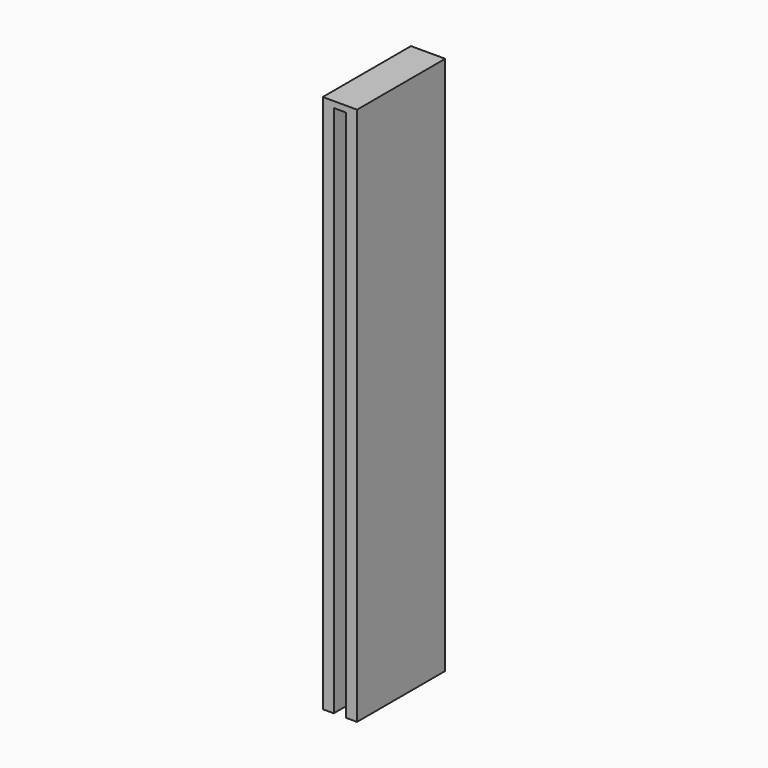
from build123d import *

# Parameters (mm, degrees)
F0_W          = 45
F0_H          = 220
F1_DEPTH      = 7
F1_DEPTH_BACK = 7
F2_W          = 5
F2_H          = 217.5
F3_DEPTH      = 20


with BuildPart() as f1:
    # F0 (on Right) → F1 (new body, two sides)
    with BuildSketch(Plane.YZ) as f1_sk:
        with Locations((8.797029, 79.818066)):
            Rectangle(F0_W, F0_H)
    extrude(amount=F1_DEPTH)
    extrude(f1_sk.sketch, amount=-F1_DEPTH_BACK)

    # F2 (on face) → F3 (cut)
    with BuildSketch(Plane.XZ.offset(13.702971)):
        with Locations((0, 78.568066)):
            Rectangle(F2_W, F2_H)
    extrude(amount=-F3_DEPTH, mode=Mode.SUBTRACT)


solid = f1.part
